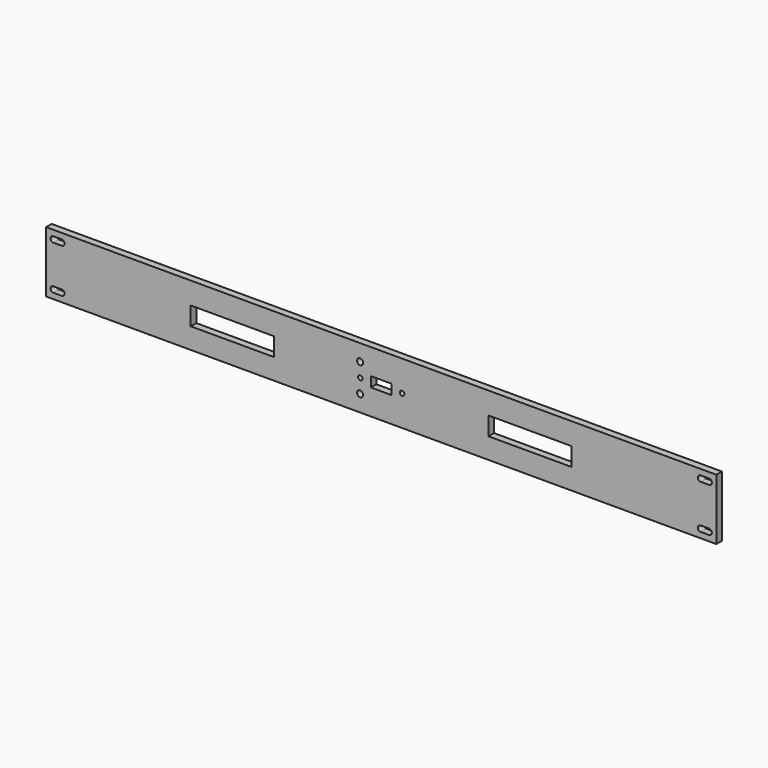
from build123d import *

# Parameters (mm, degrees)
F0_W     = 482.6
F0_H     = 44
F0_R     = 2.1844
F0_R_2   = 1.651
F0_W_2   = 14.986
F0_H_2   = 7.239
F1_DEPTH = 5
F2_W     = 59.944
F2_H     = 13.208
F3_DEPTH = 5.001


with BuildPart() as f1:
    # F0 (on Front) → F1 (new body)
    with BuildSketch(Plane.XZ):
        with Locations((241.3, 22)):
            Rectangle(F0_W, F0_H)
        with BuildLine():
            Line((11.348, 4.093), (5.252, 4.093))
            ThreePointArc((5.252, 4.093), (3.22, 6.125), (5.252, 8.157))
            Line((5.252, 8.157), (11.348, 8.157))
            ThreePointArc((11.348, 8.157), (13.38, 6.125), (11.348, 4.093))
        make_face(mode=Mode.SUBTRACT)
        with Locations((226.06, 11.84)):
            Circle(F0_R, mode=Mode.SUBTRACT)
        with BuildLine():
            Line((471.252, 8.157), (477.348, 8.157))
            ThreePointArc((477.348, 8.157), (479.38, 6.125), (477.348, 4.093))
            Line((477.348, 4.093), (471.252, 4.093))
            ThreePointArc((471.252, 4.093), (469.22, 6.125), (471.252, 8.157))
        make_face(mode=Mode.SUBTRACT)
        with Locations((226.3, 22)):
            Circle(F0_R_2, mode=Mode.SUBTRACT)
        with Locations((226.06, 32.16)):
            Circle(F0_R, mode=Mode.SUBTRACT)
        with BuildLine():
            ThreePointArc((5.252, 35.843), (3.22, 37.875), (5.252, 39.907))
            Line((5.252, 39.907), (11.348, 39.907))
            ThreePointArc((11.348, 39.907), (13.38, 37.875), (11.348, 35.843))
            Line((11.348, 35.843), (5.252, 35.843))
        make_face(mode=Mode.SUBTRACT)
        with Locations((241.3, 22)):
            Rectangle(F0_W_2, F0_H_2, mode=Mode.SUBTRACT)
        with Locations((256.3, 22)):
            Circle(F0_R_2, mode=Mode.SUBTRACT)
        with BuildLine():
            Line((471.252, 39.907), (477.348, 39.907))
            ThreePointArc((477.348, 39.907), (479.38, 37.875), (477.348, 35.843))
            Line((477.348, 35.843), (471.252, 35.843))
            ThreePointArc((471.252, 35.843), (469.22, 37.875), (471.252, 39.907))
        make_face(mode=Mode.SUBTRACT)
    extrude(amount=-F1_DEPTH)

    # F2 (on face) → F3 (cut, through all)
    with BuildSketch(Plane.XZ):
        with Locations((134.112, 21.59)):
            Rectangle(F2_W, F2_H)
        with Locations((348.488, 21.59)):
            Rectangle(F2_W, F2_H)
    extrude(amount=-F3_DEPTH, mode=Mode.SUBTRACT)


solid = f1.part
